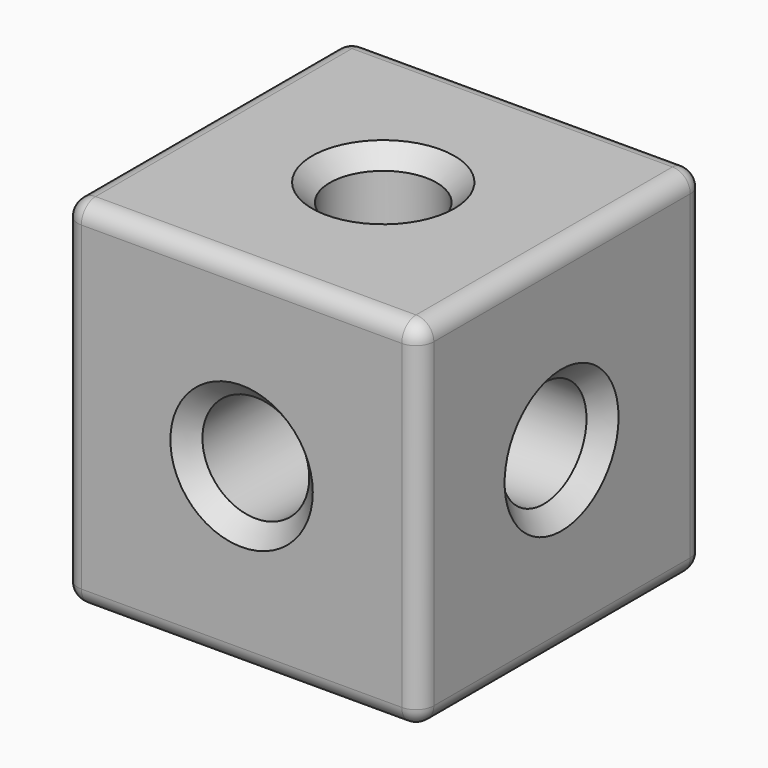
from build123d import *

# Parameters (mm, degrees)
F0_W     = 100
F0_H     = 100
F0_R     = 15
F1_DEPTH = 100
F2_R     = 15
F3_DEPTH = 100
F4_R     = 15
F5_DEPTH = 100
F6_R     = 5
F7_SIZE  = 5


with BuildPart() as f1:
    # F0 (on Front) → F1 (new body)
    with BuildSketch(Plane.XZ):
        Rectangle(F0_W, F0_H)
        Circle(F0_R, mode=Mode.SUBTRACT)
    extrude(amount=F1_DEPTH)

    # F2 (on face) → F3 (cut)
    with BuildSketch(Plane.YZ.offset(50)):
        with Locations((-50.151795, 0)):
            Circle(F2_R)
    extrude(amount=-F3_DEPTH, mode=Mode.SUBTRACT)

    # F4 (on face) → F5 (cut)
    with BuildSketch(Plane.XY.offset(50)):
        with Locations((0, -50.267148)):
            Circle(F4_R)
    extrude(amount=-F5_DEPTH, mode=Mode.SUBTRACT)

    # F6
    f6_edges = [f1.edges().sort_by_distance(p)[0] for p in [
        (0, -100, 50),
        (50, -50, 50),
        (50, -100, 0),
        (0, -100, -50),
        (50, -50, -50),
        (50, 0, 0),
        (0, 0, 50),
        (-50, 0, 0),
        (0, 0, -50),
        (-50, -50, -50),
        (-50, -50, 50),
        (-50, -100, 0),
    ]]
    fillet(f6_edges, radius=F6_R)

    # F7
    f7_edges = [f1.edges().sort_by_distance(p)[0] for p in [
        (-15, -100, 0),
        (-15, -50.267148, 50),
        (50, -65.151795, 0),
        (-15, 0, 0),
        (-15, -50.267148, -50),
        (-50, -65.151795, 0),
    ]]
    chamfer(f7_edges, length=F7_SIZE)


solid = f1.part
